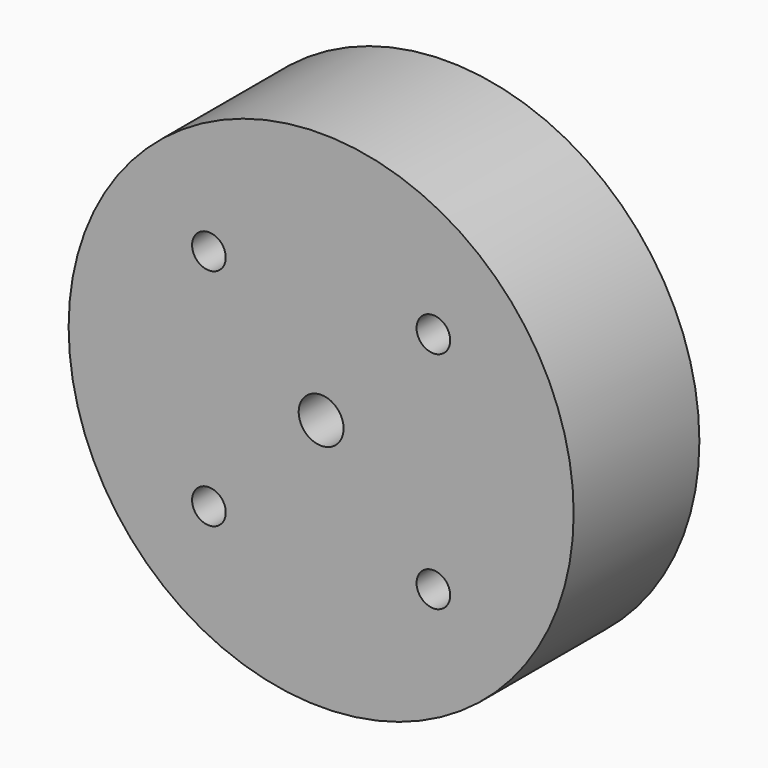
from build123d import *

# Parameters (mm, degrees)
F0_R     = 45
F0_R_2   = 3
F0_R_3   = 4
F1_DEPTH = 14


with BuildPart() as f1:
    # F0 (on Front) → F1 (new body, symmetric)
    with BuildSketch(Plane.XZ):
        Circle(F0_R)
        with Locations((-20, -20)):
            Circle(F0_R_2, mode=Mode.SUBTRACT)
        with Locations((20, -20)):
            Circle(F0_R_2, mode=Mode.SUBTRACT)
        with Locations((-20, 20)):
            Circle(F0_R_2, mode=Mode.SUBTRACT)
        Circle(F0_R_3, mode=Mode.SUBTRACT)
        with Locations((20, 20)):
            Circle(F0_R_2, mode=Mode.SUBTRACT)
    extrude(amount=F1_DEPTH, both=True)


solid = f1.part
